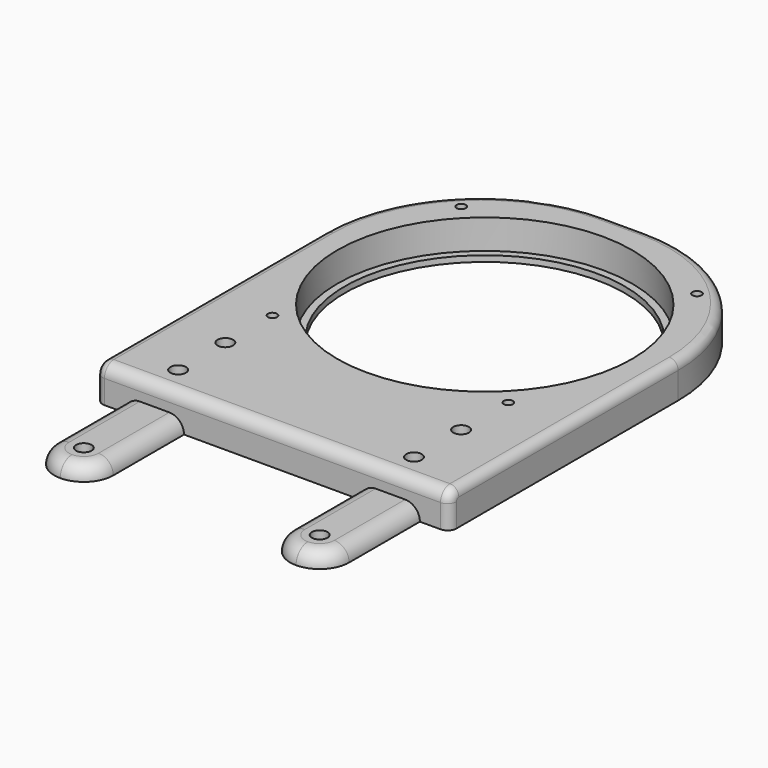
from build123d import *

# Parameters (mm, degrees)
SKETCH_W        = 120
SKETCH_H        = 150
PAD_DEPTH       = 12
SKETCH001_R     = 50
POCKET_DEPTH    = 10
SKETCH002_R     = 47.5
POCKET001_DEPTH = 2
SKETCH003_R     = 2.65
POCKET002_DEPTH = 15
SKETCH004_R     = 1.55
POCKET003_DEPTH = 15
SKETCH005_W     = 20
SKETCH005_H     = 5
PAD001_DEPTH    = 40
SKETCH006_R     = 2.65
POCKET004_DEPTH = 5
FILLET_R        = 53
FILLET001_R     = 4
FILLET002_R     = 3
FILLET003_R     = 9.99
FILLET004_R     = 4.99


with BuildPart() as part:
    # Sketch → Pad (new body)
    with BuildSketch(Plane.XY):
        Rectangle(SKETCH_W, SKETCH_H)
    extrude(amount=PAD_DEPTH)

    # Sketch001 (on Face6 of Pad) → Pocket (cut)
    with BuildSketch(Plane.XY.offset(12)):
        with Locations((0, 15)):
            Circle(SKETCH001_R)
    extrude(amount=-POCKET_DEPTH, mode=Mode.SUBTRACT)

    # Sketch002 (on Face8 of Pocket) → Pocket001 (cut)
    with BuildSketch(Plane.XY.offset(2)):
        with Locations((0, 15)):
            Circle(SKETCH002_R)
    extrude(amount=-POCKET001_DEPTH, mode=Mode.SUBTRACT)

    # Sketch003 (on Face5 of Pocket001) → Pocket002 (cut)
    with BuildSketch(Plane.XY.offset(12)):
        with Locations((-40, -45)):
            Circle(SKETCH003_R)
        with Locations((-40, -65)):
            Circle(SKETCH003_R)
        with Locations((40, -45)):
            Circle(SKETCH003_R)
        with Locations((40, -65)):
            Circle(SKETCH003_R)
    extrude(amount=-POCKET002_DEPTH, mode=Mode.SUBTRACT)

    # Sketch004 (on Face5 of Pocket002) → Pocket003 (cut)
    with BuildSketch(Plane.XY.offset(12)):
        with Locations((-40, 55)):
            Circle(SKETCH004_R)
        with Locations((40, 55)):
            Circle(SKETCH004_R)
        with Locations((40, -25)):
            Circle(SKETCH004_R)
        with Locations((-40, -25)):
            Circle(SKETCH004_R)
    extrude(amount=-POCKET003_DEPTH, mode=Mode.SUBTRACT)

    # Sketch005 (on Face2 of Pocket003) → Pad001 (join)
    with BuildSketch(Plane.XZ.offset(75)):
        with Locations((-40, 2.5)):
            Rectangle(SKETCH005_W, SKETCH005_H)
        with Locations((40, 2.5)):
            Rectangle(SKETCH005_W, SKETCH005_H)
    extrude(amount=PAD001_DEPTH)

    # Sketch006 (on Face10 of Pad001) → Pocket004 (cut)
    with BuildSketch(Plane.XY.offset(5)):
        with Locations((-40, -105)):
            Circle(SKETCH006_R)
        with Locations((40, -105)):
            Circle(SKETCH006_R)
    extrude(amount=-POCKET004_DEPTH, mode=Mode.SUBTRACT)

    # Fillet
    fillet_edges = [part.edges().sort_by_distance(p)[0] for p in [
        (60, 75, 6),
        (-60, 75, 6),
    ]]
    fillet(fillet_edges, radius=FILLET_R)

    # Fillet001
    fillet001_edges = [part.edges().sort_by_distance(p)[0] for p in [
        (0, -75, 12),
    ]]
    fillet(fillet001_edges, radius=FILLET001_R)

    # Fillet002
    fillet002_edges = [part.edges().sort_by_distance(p)[0] for p in [
        (60, -24.5, 12),
        (-60, -24.5, 12),
    ]]
    fillet(fillet002_edges, radius=FILLET002_R)

    # Fillet003
    fillet003_edges = [part.edges().sort_by_distance(p)[0] for p in [
        (-30, -115, 2.5),
        (-50, -115, 2.5),
        (30, -115, 2.5),
        (50, -115, 2.5),
    ]]
    fillet(fillet003_edges, radius=FILLET003_R)

    # Fillet004
    fillet004_edges = [part.edges().sort_by_distance(p)[0] for p in [
        (50, -90.005, 5),
        (30, -90.005, 5),
        (-30, -90.005, 5),
        (-50, -90.005, 5),
    ]]
    fillet(fillet004_edges, radius=FILLET004_R)


solid = part.part
